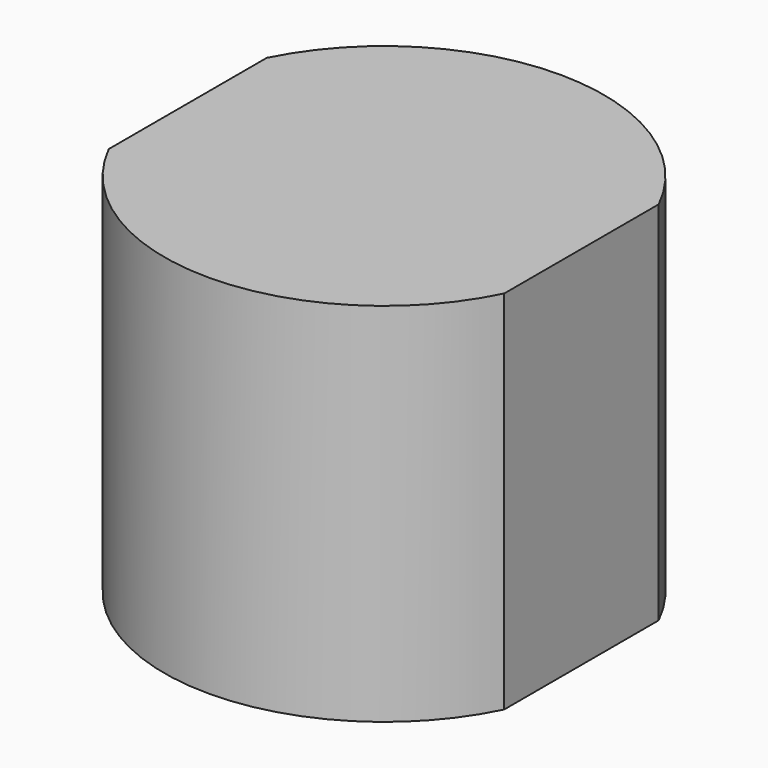
from build123d import *

# Parameters (mm, degrees)
BOX058_W          = 2
BOX058_H          = 12
BOX058_DEPTH      = 10
BOX059_W          = 2
BOX059_H          = 12
BOX059_DEPTH      = 10
CYLINDER061_R     = 6
CYLINDER061_DEPTH = 10


with BuildPart() as cube057:
    # Box058 → Box058 (new body)
    with BuildSketch(Plane(origin=(145.25, 105.25, -5), x_dir=(1, 0, 0), z_dir=(0, 0, 1))):
        with Locations((1, 6)):
            Rectangle(BOX058_W, BOX058_H)
    extrude(amount=BOX058_DEPTH)


with BuildPart() as cube058:
    # Box059 → Box059 (new body)
    with BuildSketch(Plane(origin=(132.5, 105.25, -5), x_dir=(1, 0, 0), z_dir=(0, 0, 1))):
        with Locations((1, 6)):
            Rectangle(BOX059_W, BOX059_H)
    extrude(amount=BOX059_DEPTH)


with BuildPart() as keyhole:
    # Cylinder061 → Cylinder061 (new body)
    with BuildSketch(Plane(origin=(139.86, 111.25, -5), x_dir=(1, 0, 0), z_dir=(0, 0, 1))):
        Circle(CYLINDER061_R)
    extrude(amount=CYLINDER061_DEPTH)

    # Cut072: cut Cube058
    add(cube058.part, mode=Mode.SUBTRACT)

    # Cut073: cut Cube057
    add(cube057.part, mode=Mode.SUBTRACT)


solid = keyhole.part
